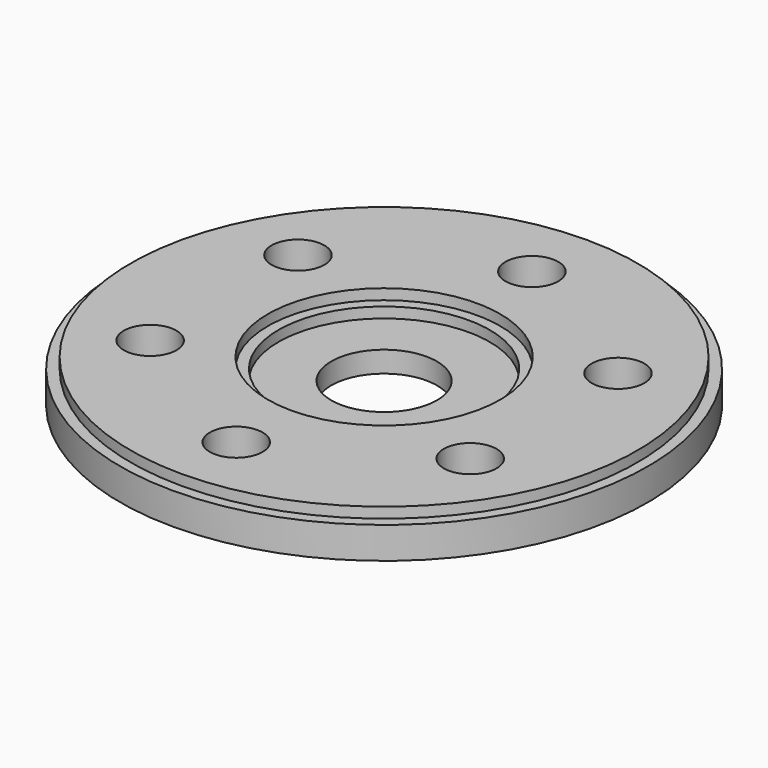
from build123d import *

# Parameters (mm, degrees)
F2_R     = 6.35
F3_DEPTH = 10.161
F4_COUNT = 6


with BuildPart() as f1:
    # F0 (on Right) → F1 (revolve)
    with BuildSketch(Plane.YZ):
        Polygon((-63.5, 0), (-12.7, 0), (-12.7, 5.08), (-25.4, 5.08), (-25.4, 7.62), (-27.94, 7.62), (-27.94, 10.16), (-60.96, 10.16), (-60.96, 7.62), (-63.5, 7.62), align=None)
    revolve(axis=Axis((0, 0, 21.0262340249), (0, 0, 1)))

    # F2 (on face) → F3 (cut, through all)
    with BuildSketch(Plane.XY.offset(10.16)):
        with Locations((0, -44.45)):
            Circle(F2_R)
    f3 = extrude(amount=-F3_DEPTH, mode=Mode.SUBTRACT)

    # F4: F3 ×6 about axis
    f4_axis = Axis((0, 0, 10.16), (0, 0, 1))
    for i in range(1, F4_COUNT):
        add(f3.rotate(f4_axis, i * 360 / F4_COUNT), mode=Mode.SUBTRACT)


solid = f1.part
